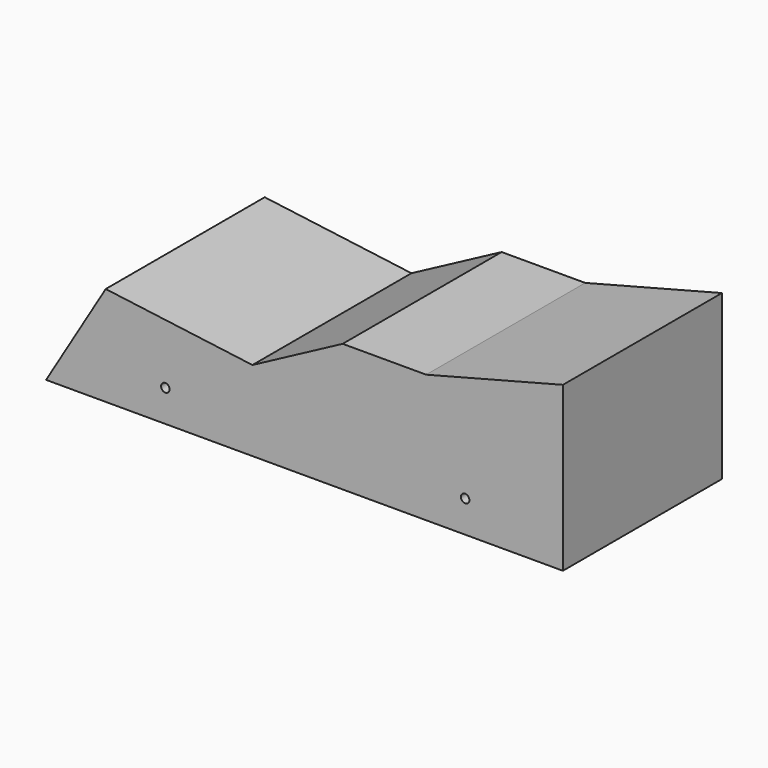
from build123d import *

# Parameters (mm, degrees)
F0_R     = 1.075
F1_DEPTH = 50
F3_DEPTH = 50


with BuildPart() as f1:
    # F0 (on Front) → F1 (new body)
    with BuildSketch(Plane.XZ):
        Polygon((25, -25), (50, -25), (50, 25), (-50, 25), (-80, -25), (-50, -25), align=None)
        with Locations((-50, -17)):
            Circle(F0_R, mode=Mode.SUBTRACT)
        with Locations((25.408758, -17)):
            Circle(F0_R, mode=Mode.SUBTRACT)
    extrude(amount=F1_DEPTH)

    # F2 (on face) → F3 (cut)
    with BuildSketch(Plane.XZ.offset(50)):
        Polygon((-50, 25), (-65, 0), (-28.095694, -4.829377), (-5.397624, 7.244065), (15.610165, 7.244065), (50, 16.178414), (50, 25), align=None)
    extrude(amount=-F3_DEPTH, mode=Mode.SUBTRACT)


solid = f1.part
